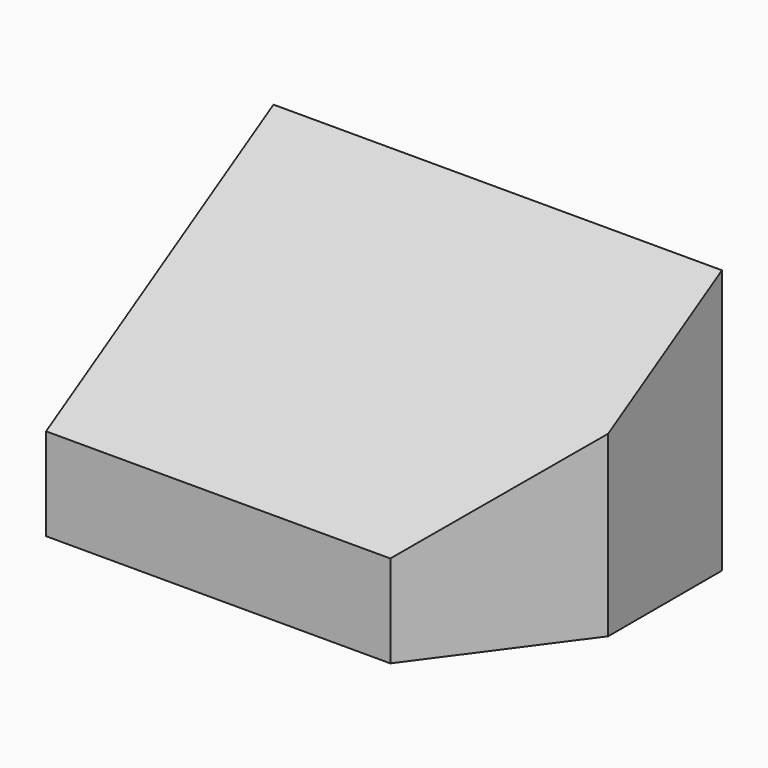
from build123d import *

# Parameters (mm, degrees)
F1_DEPTH = 63.5
F3_DEPTH = 107.692191


with BuildPart() as f1:
    # F0 (on Top) → F1 (new body)
    with BuildSketch(Plane.XY):
        Polygon((53.845596, 0), (53.845596, 34.127489), (-53.845596, 34.127489), (-53.845596, -34.127489), (28.818766, -34.127489), align=None)
    extrude(amount=F1_DEPTH)

    # F2 (on face) → F3 (cut, through all)
    with BuildSketch(Plane(origin=(-53.845596, 0, 0), x_dir=(0, -1, 0), z_dir=(-1, 0, 0))):
        Polygon((34.127489, 63.5), (-34.127489, 63.5), (34.127489, 22.182867), align=None)
    extrude(amount=-F3_DEPTH, mode=Mode.SUBTRACT)


solid = f1.part
